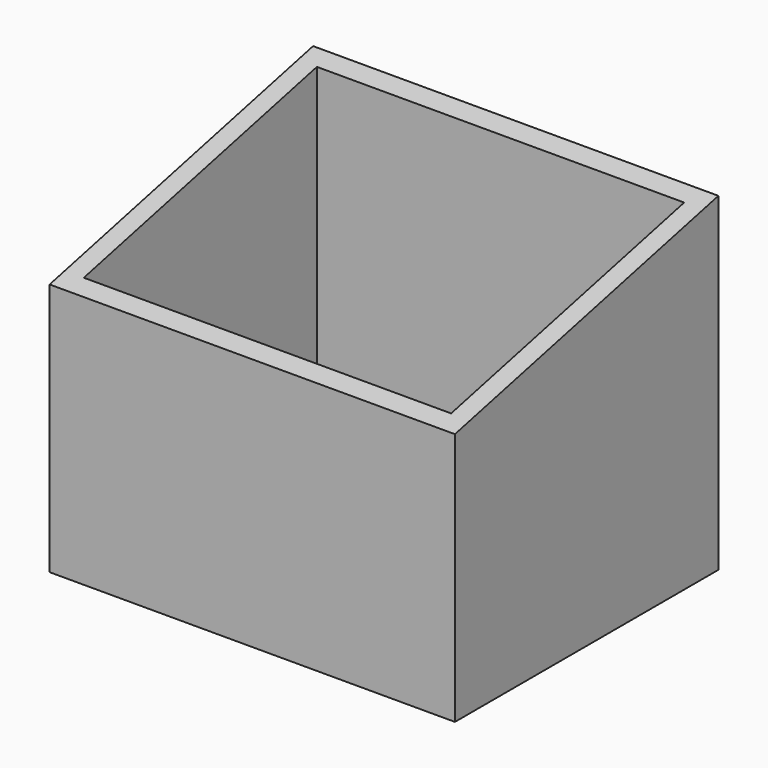
from build123d import *

# Parameters (mm, degrees)
F0_W     = 406.4
F0_H     = 330.2
F1_DEPTH = 165.1
F3_DEPTH = 406.401
F4_T     = -19.05


with BuildPart() as f1:
    # F0 (on Front) → F1 (new body, symmetric)
    with BuildSketch(Plane.XZ):
        Rectangle(F0_W, F0_H)
    extrude(amount=F1_DEPTH, both=True)

    # F2 (on face) → F3 (cut, through all)
    with BuildSketch(Plane.YZ.offset(203.2)):
        Polygon((165.1, 165.1), (-165.1, 165.1), (-165.1, 88.9), align=None)
    extrude(amount=-F3_DEPTH, mode=Mode.SUBTRACT)

    # F4
    f4_openings = [f1.faces().sort_by_distance(p)[0] for p in [
        (0, 0, 127),
    ]]
    offset(amount=F4_T, openings=f4_openings)


solid = f1.part
